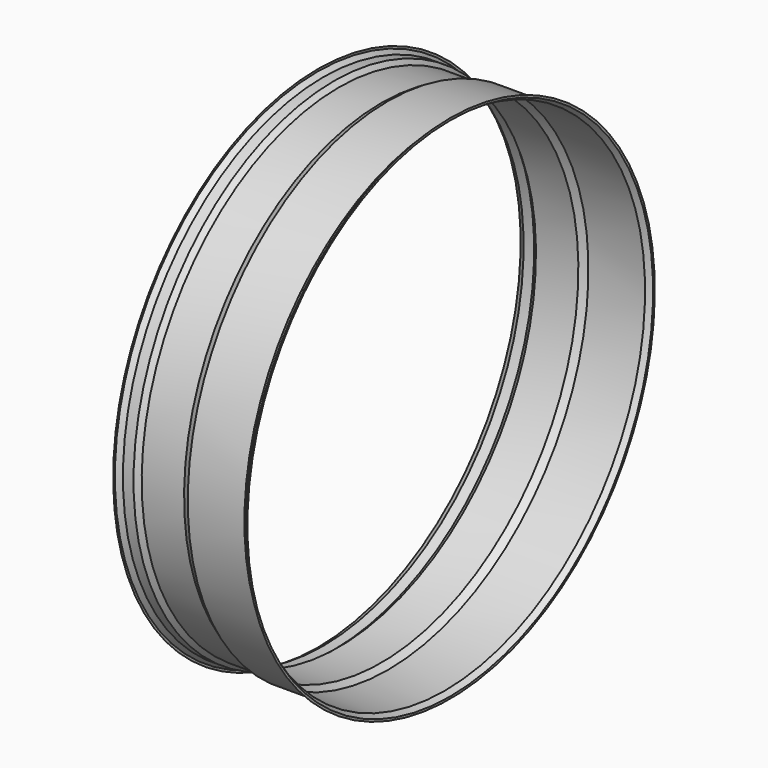
from build123d import *


with BuildPart() as f1:
    # F0 (on Front) → F1 (revolve)
    with BuildSketch(Plane.XZ):
        Polygon((0.001, 482.6), (0, 482.6), (0, 478.6), (10.392305, 472.6), (30.392305, 472.6), (39.762731, 465.10366), (119.762731, 465.10366), (132.746772, 472.6), (239.607695, 472.6), (250, 478.6), (250, 482.6), (249.999, 482.6), (249.999, 478.600577), (239.607427, 472.601), (132.746505, 472.601), (119.762463, 465.10466), (39.763082, 465.10466), (30.392656, 472.601), (10.392573, 472.601), (0.001, 478.600577), align=None)
    revolve(axis=Axis((28.736394, 0, 0), (1, 0, 0)))


solid = f1.part
